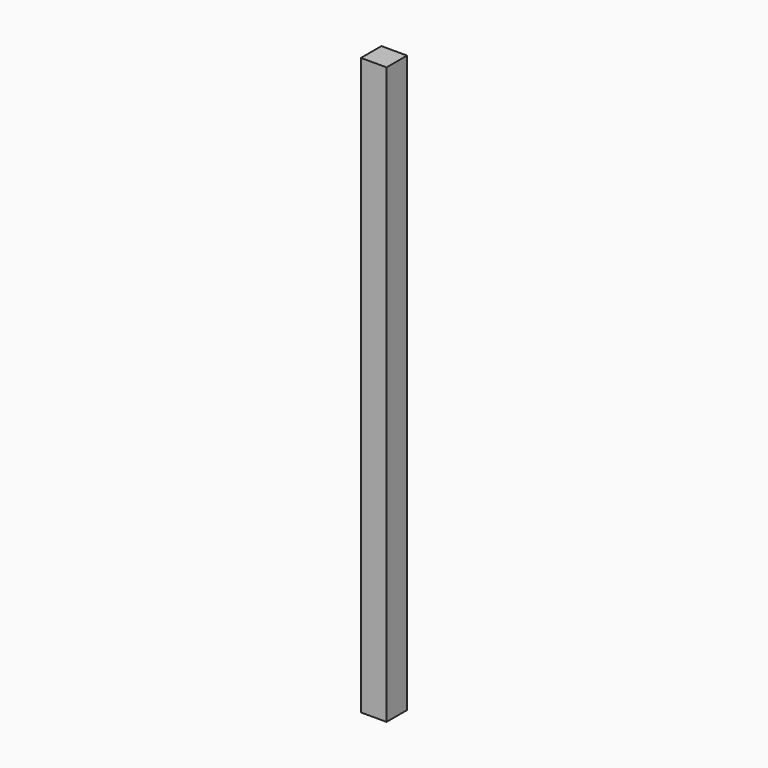
from build123d import *

# Parameters (mm, degrees)
F0_W     = 40
F0_H     = 40
F1_DEPTH = 900
F2_R     = 3
F3_DEPTH = 15


with BuildPart() as f1:
    # F0 (on Top) → F1 (new body)
    with BuildSketch(Plane.XY):
        with Locations((20, 20)):
            Rectangle(F0_W, F0_H)
    extrude(amount=F1_DEPTH)

    # F2 (on face) → F3 (cut)
    with BuildSketch(Plane.YZ.offset(40)):
        with Locations((17.775724, 878.934979)):
            Circle(F2_R)
    extrude(amount=F3_DEPTH, mode=Mode.SUBTRACT)


solid = f1.part
